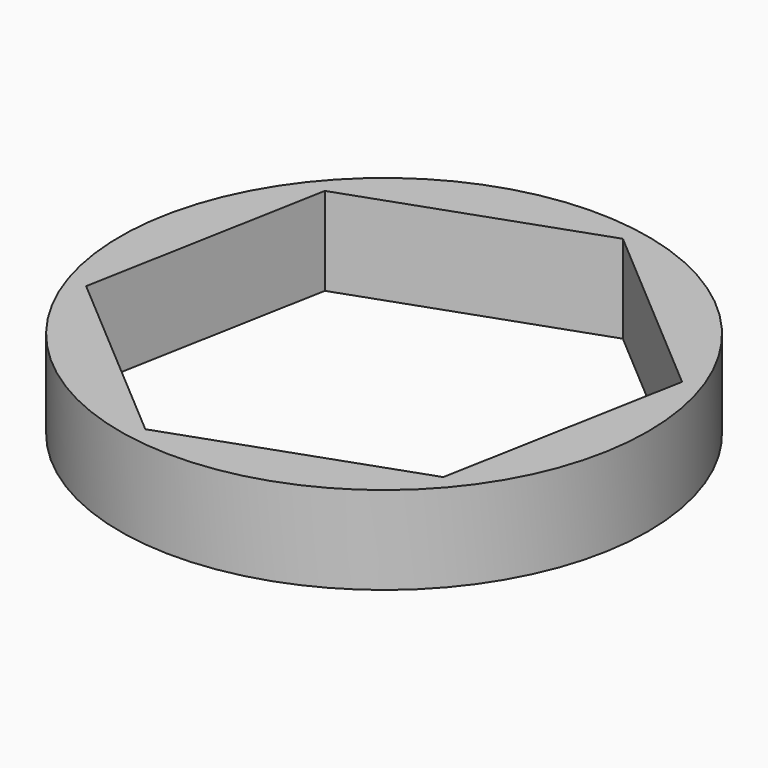
from build123d import *

# Parameters (mm, degrees)
F0_R     = 15
F1_DEPTH = 5
F3_DEPTH = 25


with BuildPart() as f1:
    # F0 (on Top) → F1 (new body)
    with BuildSketch(Plane.XY):
        Circle(F0_R)
        Polygon((-2.8688276582, 13.7029131161), (10.4326570353, 9.3359341892), (13.3014846935, -4.3669789269), (2.8688276582, -13.7029131161), (-10.4326570353, -9.3359341892), (-13.3014846935, 4.3669789269), align=None, mode=Mode.SUBTRACT)
        Polygon((13.3014846935, -4.3669789269), (10.4326570353, 9.3359341892), (-2.8688276582, 13.7029131161), (-13.3014846935, 4.3669789269), (-10.4326570353, -9.3359341892), (2.8688276582, -13.7029131161), align=None)
    extrude(amount=F1_DEPTH)

    # F2 (on face) → F3 (cut)
    with BuildSketch(Plane(origin=(0, 0, 0), x_dir=(1, 0, 0), z_dir=(0, 0, -1))):
        Polygon((-13.1988527334, 4.668006697), (-10.6420387513, -9.0965384194), (2.5568139821, -13.7645451164), (13.1988527334, -4.668006697), (10.6420387513, 9.0965384194), (-2.5568139821, 13.7645451164), align=None)
    extrude(amount=-F3_DEPTH, mode=Mode.SUBTRACT)


solid = f1.part
